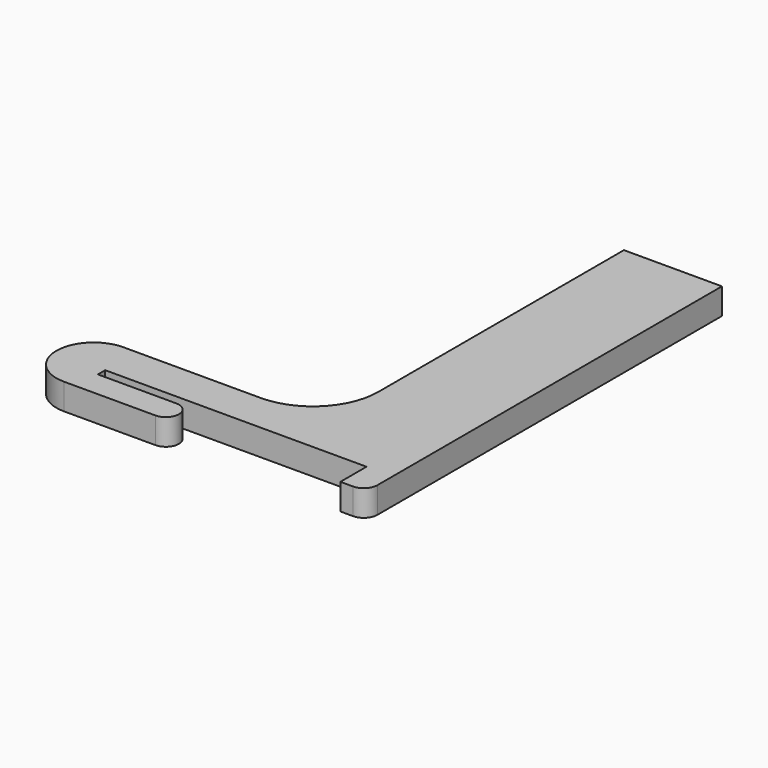
from build123d import *

# Parameters (mm, degrees)
F1_DEPTH = 2.54


with BuildPart() as f1:
    # F0 (on Top) → F1 (new body)
    with BuildSketch(Plane.XY):
        with BuildLine():
            Line((2.54, 40.005), (-6.985, 40.005))
            Line((-6.985, 40.005), (-6.985, 10.16))
            ThreePointArc((-6.985, 10.16), (-8.844872, 5.669872), (-13.335, 3.81))
            Line((-13.335, 3.81), (-26.67, 3.81))
            ThreePointArc((-26.67, 3.81), (-30.2895, 0.1905), (-26.67, -3.429))
            Line((-26.67, -3.429), (-17.78, -3.429))
            ThreePointArc((-17.78, -3.429), (-16.51, -2.159), (-17.78, -0.889))
            Line((-17.78, -0.889), (-25.4, -0.889))
            Line((-25.4, -0.889), (-25.4, 0))
            Line((-25.4, 0), (0, 0))
            Line((0, 0), (0, -3.175))
            Line((0, -3.175), (1.2192, -3.175))
            ThreePointArc((1.2192, -3.175), (2.153147, -2.788147), (2.54, -1.8542))
            Line((2.54, -1.8542), (2.54, 40.005))
        make_face()
    extrude(amount=F1_DEPTH)


solid = f1.part
